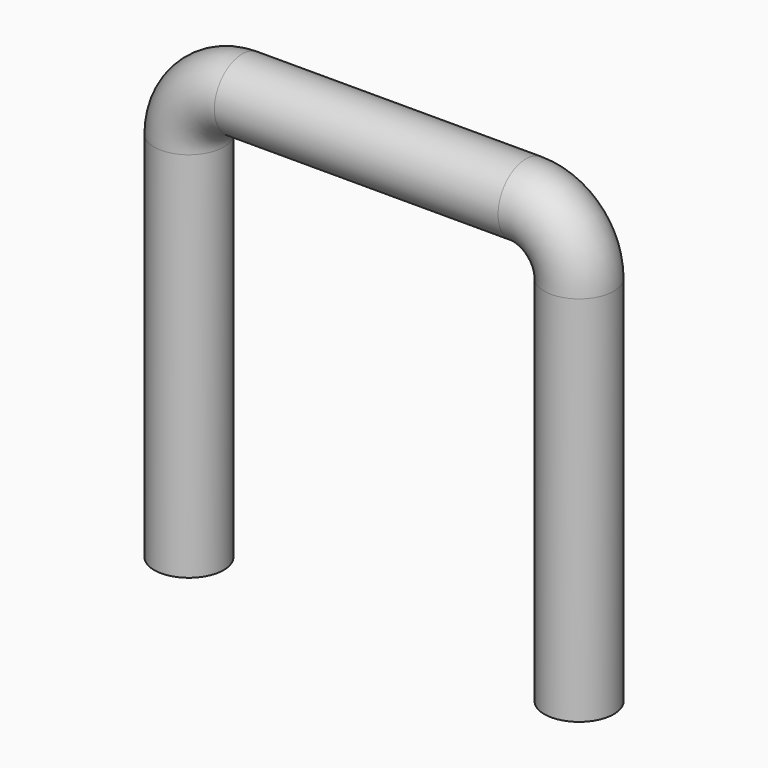
from build123d import *

# Parameters (mm, degrees)
F0_R = 6.223


with BuildPart() as f2:
    # F2: sweep along a path in F1
    with BuildLine(Plane.XZ) as f2_path:
        Line((0, 0), (0, 66.675))
        ThreePointArc((0, 66.675), (2.789808, 73.410192), (9.525, 76.2))
        Line((9.525, 76.2), (60.325, 76.2))
        ThreePointArc((60.325, 76.2), (67.060192, 73.410192), (69.85, 66.675))
        Line((69.85, 66.675), (69.85, 0))
    # F0 (on Top) → F2 (sweep)
    with BuildSketch(Plane.XY):
        Circle(F0_R)
    sweep(path=f2_path.line)


solid = f2.part
